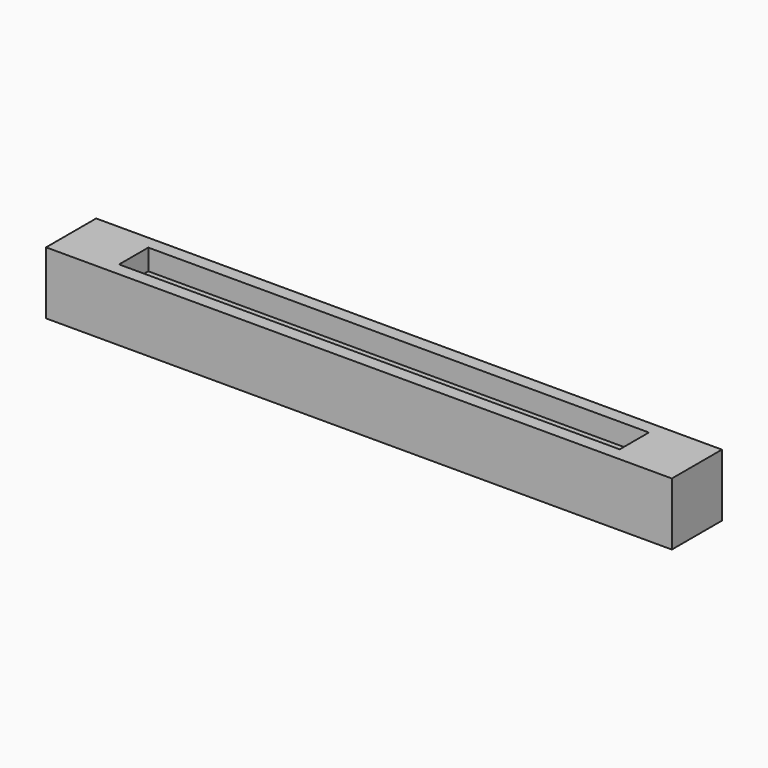
from build123d import *

# Parameters (mm, degrees)
F0_W     = 762
F0_H     = 76.2
F1_DEPTH = 76.2
F2_W     = 609.6
F2_H     = 44.45
F3_DEPTH = 25.4
F4_W     = 558.8
F4_H     = 25.4
F5_DEPTH = 25.4


with BuildPart() as f1:
    # F0 (on Front) → F1 (new body)
    with BuildSketch(Plane.XZ):
        Rectangle(F0_W, F0_H)
    extrude(amount=F1_DEPTH)

    # F2 (on face) → F3 (cut)
    with BuildSketch(Plane.XY.offset(38.1)):
        with Locations((0, -38.1)):
            Rectangle(F2_W, F2_H)
    extrude(amount=-F3_DEPTH, mode=Mode.SUBTRACT)

    # F4 (on face) → F5 (cut)
    with BuildSketch(Plane.XY.offset(12.7)):
        with Locations((0, -38.1)):
            Rectangle(F4_W, F4_H)
    extrude(amount=-F5_DEPTH, mode=Mode.SUBTRACT)


solid = f1.part
